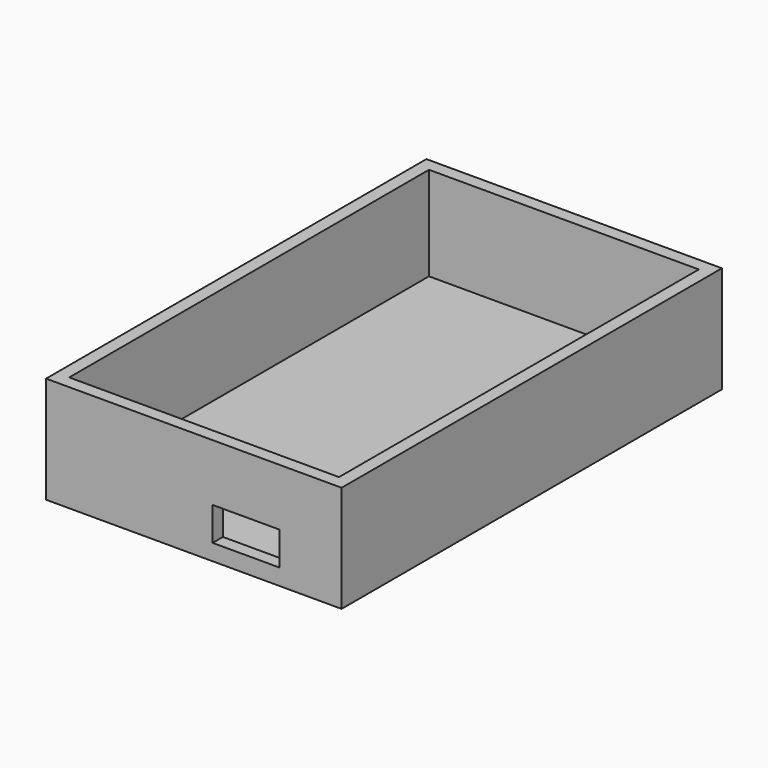
from build123d import *

# Parameters (mm, degrees)
F0_W     = 58.42
F0_H     = 93.98
F1_DEPTH = 21.082
F2_T     = -2.54
F3_W     = 13.208
F3_H     = 6.604
F4_DEPTH = 44.37549


with BuildPart() as f1:
    # F0 (on Top) → F1 (new body)
    with BuildSketch(Plane.XY):
        with Locations((8.371627, 33.384961)):
            Rectangle(F0_W, F0_H)
    extrude(amount=F1_DEPTH)

    # F2
    f2_openings = [f1.faces().sort_by_distance(p)[0] for p in [
        (8.371627, 33.384961, 21.082),
    ]]
    offset(amount=F2_T, openings=f2_openings)

    # F3 (on Front) → F4 (cut)
    with BuildSketch(Plane.XZ):
        with Locations((18.686646, 6.503384)):
            Rectangle(F3_W, F3_H)
    extrude(amount=F4_DEPTH, mode=Mode.SUBTRACT)


solid = f1.part
